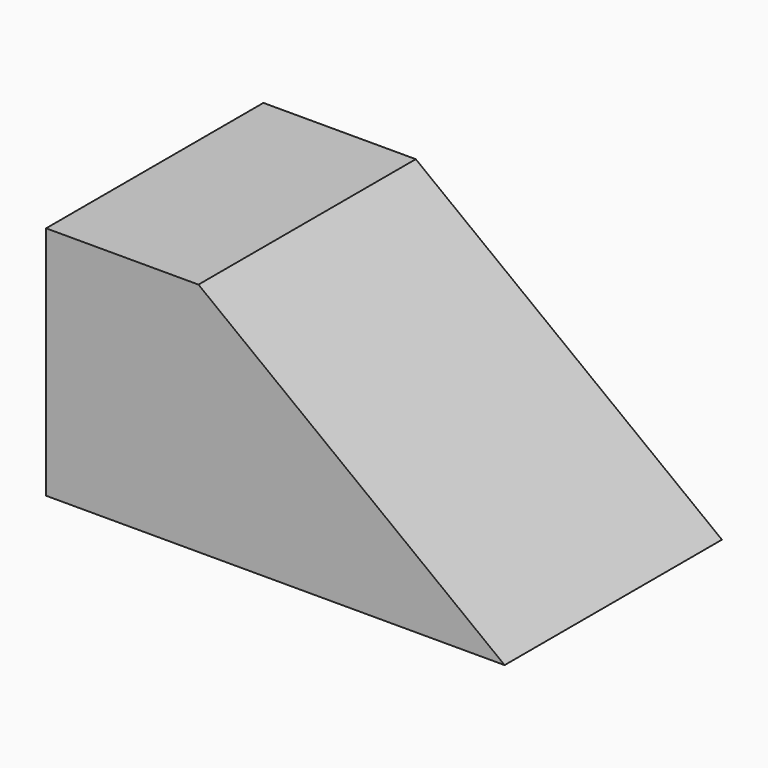
from build123d import *

# Parameters (mm, degrees)
F0_W     = 128.632202
F0_H     = 66.049174
F1_DEPTH = 76.2
F3_DEPTH = 76.201


with BuildPart() as f1:
    # F0 (on Front) → F1 (new body)
    with BuildSketch(Plane.XZ):
        Rectangle(F0_W, F0_H)
    extrude(amount=F1_DEPTH)

    # F2 (on face) → F3 (cut, through all)
    with BuildSketch(Plane.XZ.offset(76.2)):
        Polygon((64.316101, -33.024587), (64.316101, 33.024587), (-21.567076, 33.024587), align=None)
    extrude(amount=-F3_DEPTH, mode=Mode.SUBTRACT)


solid = f1.part
